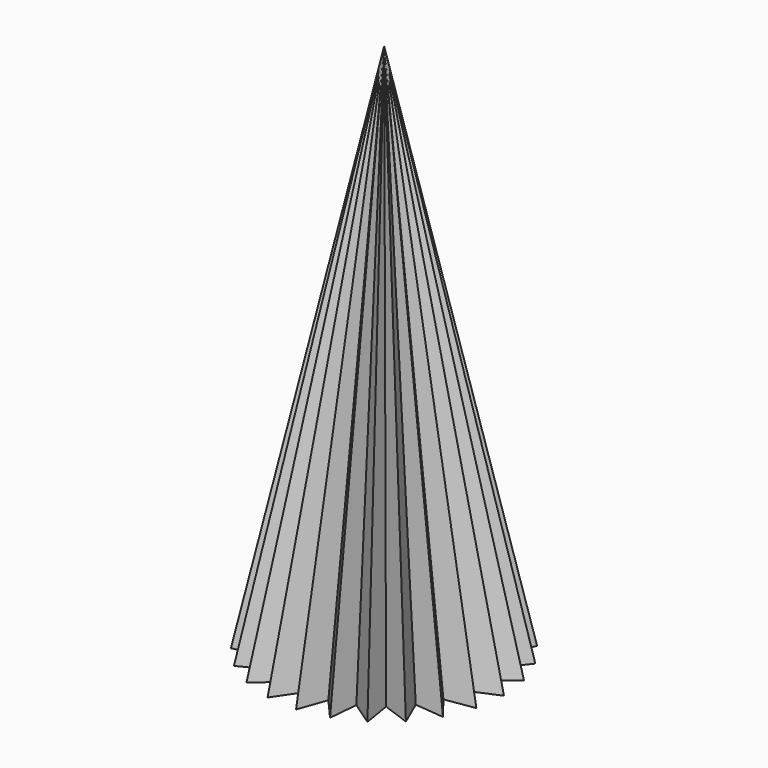
from build123d import *

# Parameters (mm, degrees)
F8_COUNT = 25


with BuildPart() as f1:
    # F0 (on Front) → F1 (revolve)
    with BuildSketch(Plane.XZ):
        Polygon((-45, 0), (0, 0), (0, 200), align=None)
    revolve(axis=Axis((0, 0, 100), (0, 0, 1)))


with BuildPart() as f7:
    # F7: sweep along a path in F6
    with BuildLine(Plane.XZ) as f7_path:
        Line((-35, 0), (2.9236729855, 216.7067027743))
    # F5 (on face) → F7 (sweep)
    with BuildSketch(Plane(origin=(0, 0, 0), x_dir=(1, 0, 0), z_dir=(0, 0, -1))):
        with BuildLine():
            Line((-44.6429487171, -5.6574844095), (-35, 0))
            Line((-35, 0), (-44.6429487171, 5.6574844095))
            ThreePointArc((-44.6429487171, 5.6574844095), (-45, 0), (-44.6429487171, -5.6574844095))
        make_face()
    sweep(path=f7_path.line)


with BuildPart() as f8_1:
    # F8: instance of F7
    add(f7.part.rotate(Axis((0, 0, 0), (0, 0, 1)), 1 * 360 / F8_COUNT))


with BuildPart() as f8_2:
    # F8: instance of F7
    add(f7.part.rotate(Axis((0, 0, 0), (0, 0, 1)), 2 * 360 / F8_COUNT))


with BuildPart() as f8_3:
    # F8: instance of F7
    add(f7.part.rotate(Axis((0, 0, 0), (0, 0, 1)), 3 * 360 / F8_COUNT))


with BuildPart() as f8_4:
    # F8: instance of F7
    add(f7.part.rotate(Axis((0, 0, 0), (0, 0, 1)), 4 * 360 / F8_COUNT))


with BuildPart() as f8_5:
    # F8: instance of F7
    add(f7.part.rotate(Axis((0, 0, 0), (0, 0, 1)), 5 * 360 / F8_COUNT))


with BuildPart() as f8_6:
    # F8: instance of F7
    add(f7.part.rotate(Axis((0, 0, 0), (0, 0, 1)), 6 * 360 / F8_COUNT))


with BuildPart() as f8_7:
    # F8: instance of F7
    add(f7.part.rotate(Axis((0, 0, 0), (0, 0, 1)), 7 * 360 / F8_COUNT))


with BuildPart() as f8_8:
    # F8: instance of F7
    add(f7.part.rotate(Axis((0, 0, 0), (0, 0, 1)), 8 * 360 / F8_COUNT))


with BuildPart() as f8_9:
    # F8: instance of F7
    add(f7.part.rotate(Axis((0, 0, 0), (0, 0, 1)), 9 * 360 / F8_COUNT))


with BuildPart() as f8_10:
    # F8: instance of F7
    add(f7.part.rotate(Axis((0, 0, 0), (0, 0, 1)), 10 * 360 / F8_COUNT))


with BuildPart() as f8_11:
    # F8: instance of F7
    add(f7.part.rotate(Axis((0, 0, 0), (0, 0, 1)), 11 * 360 / F8_COUNT))


with BuildPart() as f8_12:
    # F8: instance of F7
    add(f7.part.rotate(Axis((0, 0, 0), (0, 0, 1)), 12 * 360 / F8_COUNT))


with BuildPart() as f8_13:
    # F8: instance of F7
    add(f7.part.rotate(Axis((0, 0, 0), (0, 0, 1)), 13 * 360 / F8_COUNT))


with BuildPart() as f8_14:
    # F8: instance of F7
    add(f7.part.rotate(Axis((0, 0, 0), (0, 0, 1)), 14 * 360 / F8_COUNT))


with BuildPart() as f8_15:
    # F8: instance of F7
    add(f7.part.rotate(Axis((0, 0, 0), (0, 0, 1)), 15 * 360 / F8_COUNT))


with BuildPart() as f8_16:
    # F8: instance of F7
    add(f7.part.rotate(Axis((0, 0, 0), (0, 0, 1)), 16 * 360 / F8_COUNT))


with BuildPart() as f8_17:
    # F8: instance of F7
    add(f7.part.rotate(Axis((0, 0, 0), (0, 0, 1)), 17 * 360 / F8_COUNT))


with BuildPart() as f8_18:
    # F8: instance of F7
    add(f7.part.rotate(Axis((0, 0, 0), (0, 0, 1)), 18 * 360 / F8_COUNT))


with BuildPart() as f8_19:
    # F8: instance of F7
    add(f7.part.rotate(Axis((0, 0, 0), (0, 0, 1)), 19 * 360 / F8_COUNT))


with BuildPart() as f8_20:
    # F8: instance of F7
    add(f7.part.rotate(Axis((0, 0, 0), (0, 0, 1)), 20 * 360 / F8_COUNT))


with BuildPart() as f8_21:
    # F8: instance of F7
    add(f7.part.rotate(Axis((0, 0, 0), (0, 0, 1)), 21 * 360 / F8_COUNT))


with BuildPart() as f8_22:
    # F8: instance of F7
    add(f7.part.rotate(Axis((0, 0, 0), (0, 0, 1)), 22 * 360 / F8_COUNT))


with BuildPart() as f8_23:
    # F8: instance of F7
    add(f7.part.rotate(Axis((0, 0, 0), (0, 0, 1)), 23 * 360 / F8_COUNT))


with BuildPart() as f8_24:
    # F8: instance of F7
    add(f7.part.rotate(Axis((0, 0, 0), (0, 0, 1)), 24 * 360 / F8_COUNT))


with BuildPart() as f1_1:
    add(f1.part)

    # F9: cut F7, F8_1, F8_2, F8_3, F8_6, F8_7, F8_8, F8_9, F8_10, F8_11, F8_12, F8_13, F8_14, F8_15, F8_16, F8_17, F8_18, F8_19, F8_20, F8_21, F8_22, F8_23, F8_24, F8_4, F8_5
    add(f7.part, mode=Mode.SUBTRACT)
    add(f8_1.part, mode=Mode.SUBTRACT)
    add(f8_2.part, mode=Mode.SUBTRACT)
    add(f8_3.part, mode=Mode.SUBTRACT)
    add(f8_6.part, mode=Mode.SUBTRACT)
    add(f8_7.part, mode=Mode.SUBTRACT)
    add(f8_8.part, mode=Mode.SUBTRACT)
    add(f8_9.part, mode=Mode.SUBTRACT)
    add(f8_10.part, mode=Mode.SUBTRACT)
    add(f8_11.part, mode=Mode.SUBTRACT)
    add(f8_12.part, mode=Mode.SUBTRACT)
    add(f8_13.part, mode=Mode.SUBTRACT)
    add(f8_14.part, mode=Mode.SUBTRACT)
    add(f8_15.part, mode=Mode.SUBTRACT)
    add(f8_16.part, mode=Mode.SUBTRACT)
    add(f8_17.part, mode=Mode.SUBTRACT)
    add(f8_18.part, mode=Mode.SUBTRACT)
    add(f8_19.part, mode=Mode.SUBTRACT)
    add(f8_20.part, mode=Mode.SUBTRACT)
    add(f8_21.part, mode=Mode.SUBTRACT)
    add(f8_22.part, mode=Mode.SUBTRACT)
    add(f8_23.part, mode=Mode.SUBTRACT)
    add(f8_24.part, mode=Mode.SUBTRACT)
    add(f8_4.part, mode=Mode.SUBTRACT)
    add(f8_5.part, mode=Mode.SUBTRACT)


solid = f1_1.part
